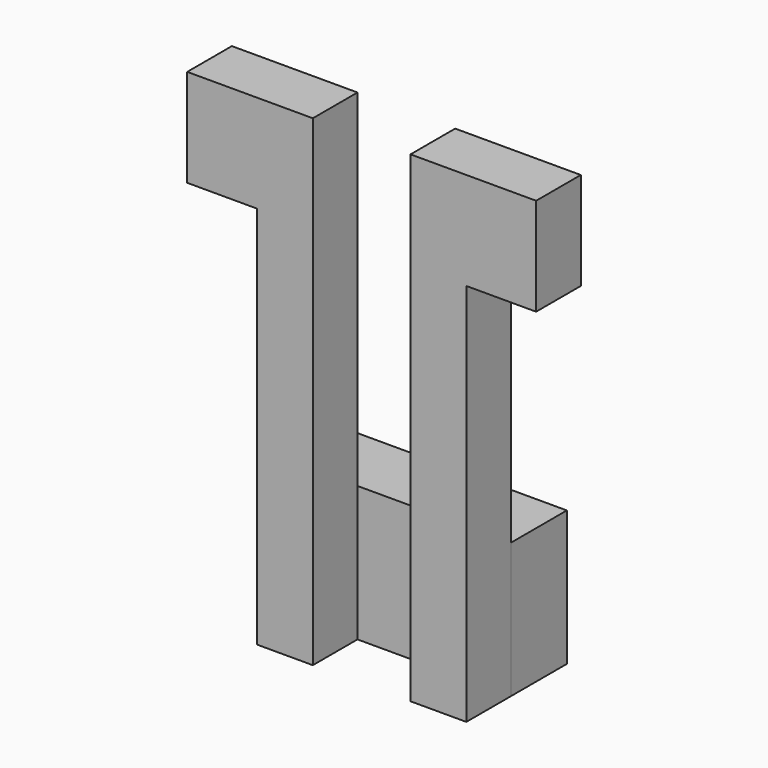
from build123d import *

# Parameters (mm, degrees)
F0_W     = 10.16
F0_H     = 24.5917529829
F0_H_2   = 45.2582470171
F1_DEPTH = 10.16
F0_W_2   = 17.78
F2_DEPTH = 12.7


with BuildPart() as f1:
    # F0 (on Front) → F1 (new body)
    with BuildSketch(Plane.XZ):
        Polygon((-26.7349292358, 28.1259290259), (-26.7349292358, 10.3459290259), (-14.0349292358, 10.3459290259), (-3.8749292358, 10.3459290259), (-3.8749292358, 28.1259290259), align=None)
        with Locations((-8.9549292358, -47.2081944827)):
            Rectangle(F0_W, F0_H)
        with Locations((-8.9549292358, -12.2831944827)):
            Rectangle(F0_W, F0_H_2)
        with Locations((-8.9549292358, -47.2081944827)):
            Rectangle(F0_W, F0_H)
    extrude(amount=F1_DEPTH)


with BuildPart() as f1b:
    # F0 (on Front) → F1, piece 2 (new body)
    with BuildSketch(Plane.XZ):
        with Locations((18.9850707642, -47.2081944827)):
            Rectangle(F0_W, F0_H)
        Polygon((13.9050707642, 28.1259290259), (13.9050707642, 10.3459290259), (24.0650707642, 10.3459290259), (36.7650707642, 10.3459290259), (36.7650707642, 28.1259290259), align=None)
        with Locations((18.9850707642, -12.2831944827)):
            Rectangle(F0_W, F0_H_2)
        with Locations((18.9850707642, -47.2081944827)):
            Rectangle(F0_W, F0_H)
    extrude(amount=F1_DEPTH)


with BuildPart() as f2:
    # F0 (on Front) → F2 (new body)
    with BuildSketch(Plane.XZ):
        with Locations((-8.9549292358, -47.2081944827)):
            Rectangle(F0_W, F0_H)
        with Locations((5.0150707642, -47.2081944827)):
            Rectangle(F0_W_2, F0_H)
        with Locations((18.9850707642, -47.2081944827)):
            Rectangle(F0_W, F0_H)
    extrude(amount=-F2_DEPTH)


solid = Compound([f1.part, f1b.part, f2.part])
